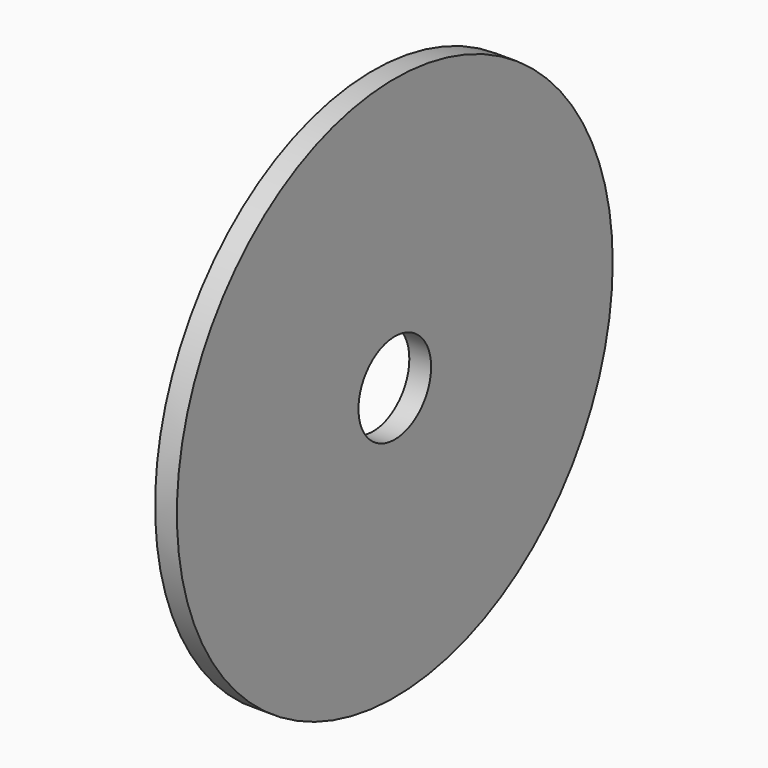
from build123d import *

# Parameters (mm, degrees)
F0_R     = 75
F1_DEPTH = 6
F2_R     = 12.5
F3_DEPTH = 6.001


with BuildPart() as f1:
    # F0 (on Right) → F1 (new body)
    with BuildSketch(Plane.YZ):
        Circle(F0_R)
    extrude(amount=F1_DEPTH)

    # F2 (on face) → F3 (cut, through all)
    with BuildSketch(Plane.YZ.offset(6)):
        Circle(F2_R)
    extrude(amount=-F3_DEPTH, mode=Mode.SUBTRACT)


solid = f1.part
